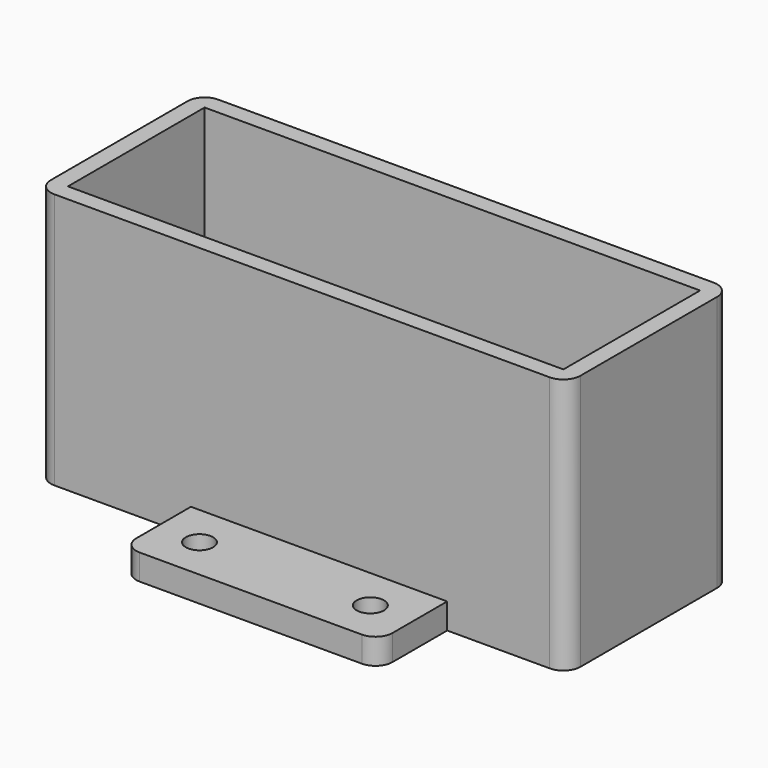
from build123d import *

# Parameters (mm, degrees)
SKETCH_W     = 62
SKETCH_H     = 24
SKETCH_W_2   = 58
SKETCH_H_2   = 20
PAD_DEPTH    = 30
SKETCH001_W  = 30
SKETCH001_H  = 3
PAD001_DEPTH = 10
SKETCH002_W  = 30
SKETCH002_H  = 3
PAD002_DEPTH = 10
SKETCH003_R  = 1.6
POCKET_DEPTH = 5
FILLET_R     = 2
FILLET001_R  = 2
FILLET002_R  = 2
FILLET003_R  = 2
FILLET004_R  = 2
FILLET005_R  = 2
FILLET006_R  = 2
FILLET007_R  = 2


with BuildPart() as part:
    # Sketch → Pad (new body)
    with BuildSketch(Plane.XY):
        with Locations((29, 10)):
            Rectangle(SKETCH_W, SKETCH_H)
        with Locations((29, 10)):
            Rectangle(SKETCH_W_2, SKETCH_H_2, mode=Mode.SUBTRACT)
    extrude(amount=PAD_DEPTH)

    # Sketch001 → Pad001 (new body)
    with BuildSketch(Plane.XZ.offset(2)):
        with Locations((31, 1.5)):
            Rectangle(SKETCH001_W, SKETCH001_H)
    extrude(amount=PAD001_DEPTH)

    # Sketch002 → Pad002 (new body)
    with BuildSketch(Plane(origin=(0, 22, 0), x_dir=(-1, 0, 0), z_dir=(0, 1, 0))):
        with Locations((-31, 1.5)):
            Rectangle(SKETCH002_W, SKETCH002_H)
    extrude(amount=PAD002_DEPTH)

    # Sketch003 → Pocket (cut)
    with BuildSketch(Plane.XY.offset(3)):
        with Locations((21, 27)):
            Circle(SKETCH003_R)
        with Locations((41, 27)):
            Circle(SKETCH003_R)
        with Locations((21, -7)):
            Circle(SKETCH003_R)
        with Locations((41, -7)):
            Circle(SKETCH003_R)
    extrude(amount=-POCKET_DEPTH, mode=Mode.SUBTRACT)

    # Fillet
    fillet_edges = [part.edges().sort_by_distance(p)[0] for p in [
        (60, 22, 15),
    ]]
    fillet(fillet_edges, radius=FILLET_R)

    # Fillet001
    fillet001_edges = [part.edges().sort_by_distance(p)[0] for p in [
        (60, -2, 15),
    ]]
    fillet(fillet001_edges, radius=FILLET001_R)

    # Fillet002
    fillet002_edges = [part.edges().sort_by_distance(p)[0] for p in [
        (-2, 22, 15),
    ]]
    fillet(fillet002_edges, radius=FILLET002_R)

    # Fillet003
    fillet003_edges = [part.edges().sort_by_distance(p)[0] for p in [
        (-2, -2, 15),
    ]]
    fillet(fillet003_edges, radius=FILLET003_R)

    # Fillet004
    fillet004_edges = [part.edges().sort_by_distance(p)[0] for p in [
        (16, -12, 1.5),
    ]]
    fillet(fillet004_edges, radius=FILLET004_R)

    # Fillet005
    fillet005_edges = [part.edges().sort_by_distance(p)[0] for p in [
        (46, -12, 1.5),
    ]]
    fillet(fillet005_edges, radius=FILLET005_R)

    # Fillet006
    fillet006_edges = [part.edges().sort_by_distance(p)[0] for p in [
        (16, 32, 1.5),
    ]]
    fillet(fillet006_edges, radius=FILLET006_R)

    # Fillet007
    fillet007_edges = [part.edges().sort_by_distance(p)[0] for p in [
        (46, 32, 1.5),
    ]]
    fillet(fillet007_edges, radius=FILLET007_R)


solid = part.part
